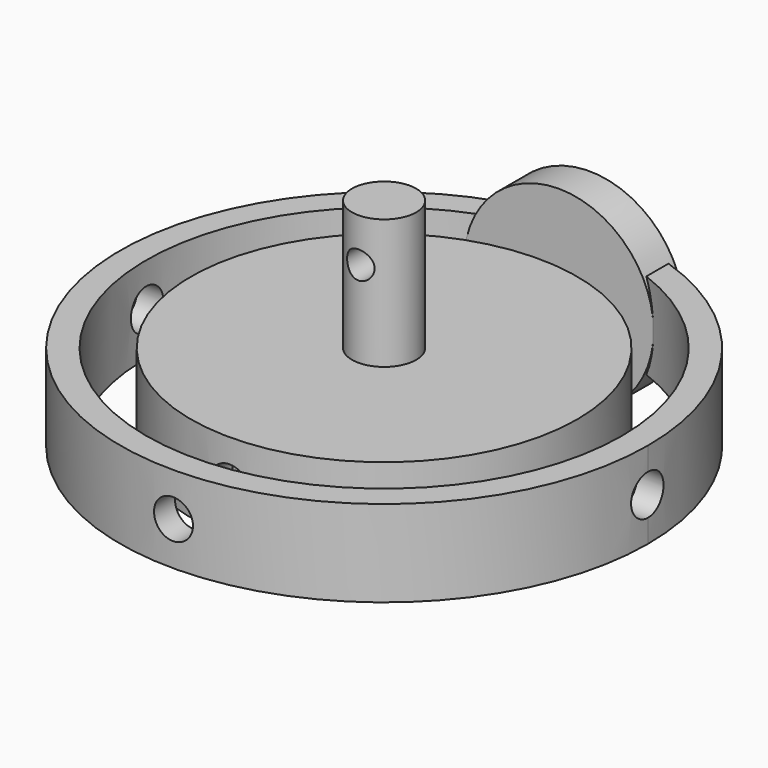
from build123d import *

# Parameters (mm, degrees)
F0_R           = 77.4350714905
F0_R_2         = 69.7833431062
F1_DEPTH       = 12.7
F0_R_3         = 56.6862794468
F1_FACE_R      = 77.4350714905
F1_FACE_R_2    = 69.7833431062
F1_FACE_R_3    = 56.6862794468
F1_FACE1_R     = 77.4350714905
F1_FACE1_R_2   = 69.7833431062
F3_DEPTH       = 12.7
F2_W           = 10.581061244
F2_H           = 5.9439064935
F5_W           = 27.7926959097
F5_H           = 11.1719220877
F7_W           = 5.7097924873
F7_H           = 30.5841192603
F9_R           = 9.4185866686
F10_DEPTH      = 50.8
F11_R          = 4.0341501012
F12_DEPTH      = 12.7
F12_DEPTH_BACK = 12.7


with BuildPart() as f1:
    # F0 (on Top) → F1 (new body)
    with BuildSketch(Plane.XY):
        Circle(F0_R)
        Circle(F0_R_2, mode=Mode.SUBTRACT)
    extrude(amount=F1_DEPTH)



with BuildPart() as f1b:
    # F0 (on Top) → F1, piece 2 (new body)
    with BuildSketch(Plane.XY):
        Circle(F0_R_3)
    extrude(amount=F1_DEPTH)


with BuildPart() as f1_1:
    add(f1.part)

    add(f1b.part)  # F3 merges F1b
    # F1_face (on face) + F1_face1 (on face) → F3 (join)
    with BuildSketch(Plane(origin=(0, 0, 0), x_dir=(1, 0, 0), z_dir=(0, 0, -1))):
        Circle(F1_FACE_R)
        Circle(F1_FACE_R_2, mode=Mode.SUBTRACT)
        Circle(F1_FACE_R_3)
    with BuildSketch(Plane.XY.offset(12.7)):
        Circle(F1_FACE1_R)
        Circle(F1_FACE1_R_2, mode=Mode.SUBTRACT)
    extrude(amount=F3_DEPTH, dir=(0, 0, -1))

    # F2 (on Top) → F4 (revolve, cut)
    with BuildSketch(Plane.XY):
        with Locations((-73.9312767982, 2.9719532467)):
            Rectangle(F2_W, F2_H)
        with Locations((73.9312767982, 2.9719532467)):
            Rectangle(F2_W, F2_H)
    revolve(axis=Axis((-73.9312767982, 0, 0), (1, 0, 0)), mode=Mode.SUBTRACT)

    # F5 (on Top) → F6 (revolve)
    with BuildSketch(Plane.XY):
        with Locations((13.8963479549, 69.6693956852)):
            Rectangle(F5_W, F5_H)
    revolve(axis=Axis((0, 69.6693956852, 0), (0, -1, 0)))

    # F7 (on Top) → F8 (revolve, cut)
    with BuildSketch(Plane.XY):
        with Locations((2.8548962437, 63.8469867408)):
            Rectangle(F7_W, F7_H)
        with Locations((2.8548962437, -63.8469867408)):
            Rectangle(F7_W, F7_H)
    revolve(axis=Axis((0, 63.8469867408, 0), (0, 1, 0)), mode=Mode.SUBTRACT)

    # F9 (on Top) → F10 (join)
    with BuildSketch(Plane.XY):
        Circle(F9_R)
    extrude(amount=F10_DEPTH)

    # F11 (on Front) → F12 (cut, two sides)
    with BuildSketch(Plane.XZ) as f12_sk:
        with Locations((0, 37.9789620638)):
            Circle(F11_R)
    extrude(amount=F12_DEPTH, mode=Mode.SUBTRACT)
    extrude(f12_sk.sketch, amount=-F12_DEPTH_BACK, mode=Mode.SUBTRACT)


solid = f1_1.part
